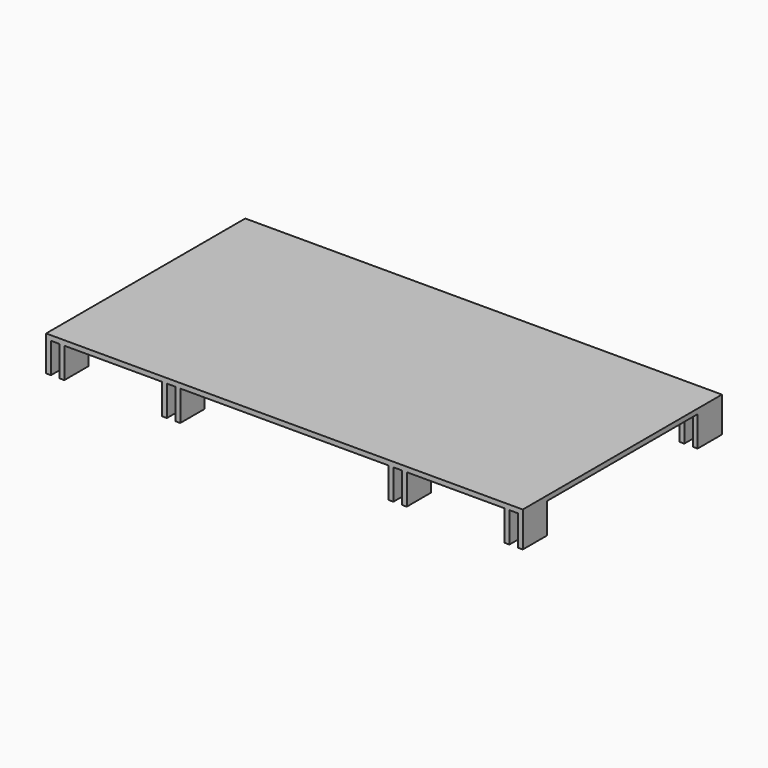
from build123d import *

# Parameters (mm, degrees)
F2_DEPTH = 82
F1_W     = 1.6
F1_H     = 10
F3_DEPTH = 10
F4_START = -72
F4_DEPTH = 10
F6_W     = 1.6
F6_H     = 10
F7_DEPTH = 10
F8_START = 102.8
F8_DEPTH = 10


with BuildPart() as f2:
    # F1 (on offset) → F2 (new body)
    with BuildSketch(Plane.XZ.offset(41)):
        Polygon((78.5, 0), (78.5, 1.6), (-78.5, 1.6), (-78.5, 0), (-76.9, 0), (-74.1, 0), (-72.5, 0), (-40.3, 0), (-38.7, 0), (-35.9, 0), (-34.3, 0), (34.3, 0), (35.9, 0), (38.7, 0), (40.3, 0), (72.5, 0), (74.1, 0), (76.9, 0), align=None)
    extrude(amount=-F2_DEPTH)

    # F1 (on offset) → F3 (join)
    with BuildSketch(Plane.XZ.offset(41)):
        with Locations((-77.7, -5)):
            Rectangle(F1_W, F1_H)
        with Locations((-73.3, -5)):
            Rectangle(F1_W, F1_H)
        with Locations((-39.5, -5)):
            Rectangle(F1_W, F1_H)
        with Locations((-35.1, -5)):
            Rectangle(F1_W, F1_H)
        with Locations((35.1, -5)):
            Rectangle(F1_W, F1_H)
        with Locations((39.5, -5)):
            Rectangle(F1_W, F1_H)
        with Locations((73.3, -5)):
            Rectangle(F1_W, F1_H)
        with Locations((77.7, -5)):
            Rectangle(F1_W, F1_H)
    extrude(amount=-F3_DEPTH)

    # F1 (on offset) → F4 (join)
    with BuildSketch(Plane.XZ.offset(41).offset(F4_START)):
        with Locations((-77.7, -5)):
            Rectangle(F1_W, F1_H)
        with Locations((-73.3, -5)):
            Rectangle(F1_W, F1_H)
        with Locations((-39.5, -5)):
            Rectangle(F1_W, F1_H)
        with Locations((-35.1, -5)):
            Rectangle(F1_W, F1_H)
        with Locations((39.5, -5)):
            Rectangle(F1_W, F1_H)
        with Locations((35.1, -5)):
            Rectangle(F1_W, F1_H)
        with Locations((73.3, -5)):
            Rectangle(F1_W, F1_H)
        with Locations((77.7, -5)):
            Rectangle(F1_W, F1_H)
    extrude(amount=-F4_DEPTH)

    # F6 (on offset) → F7 (join)
    with BuildSketch(Plane.YZ.offset(-51.4)):
        with Locations((-10.3, -5)):
            Rectangle(F6_W, F6_H)
        with Locations((-17.1, -5)):
            Rectangle(F6_W, F6_H)
    extrude(amount=-F7_DEPTH)

    # F6 (on offset) → F8 (join)
    with BuildSketch(Plane.YZ.offset(-51.4).offset(F8_START)):
        with Locations((-10.3, -5)):
            Rectangle(F6_W, F6_H)
        with Locations((-17.1, -5)):
            Rectangle(F6_W, F6_H)
    extrude(amount=F8_DEPTH)


solid = f2.part
